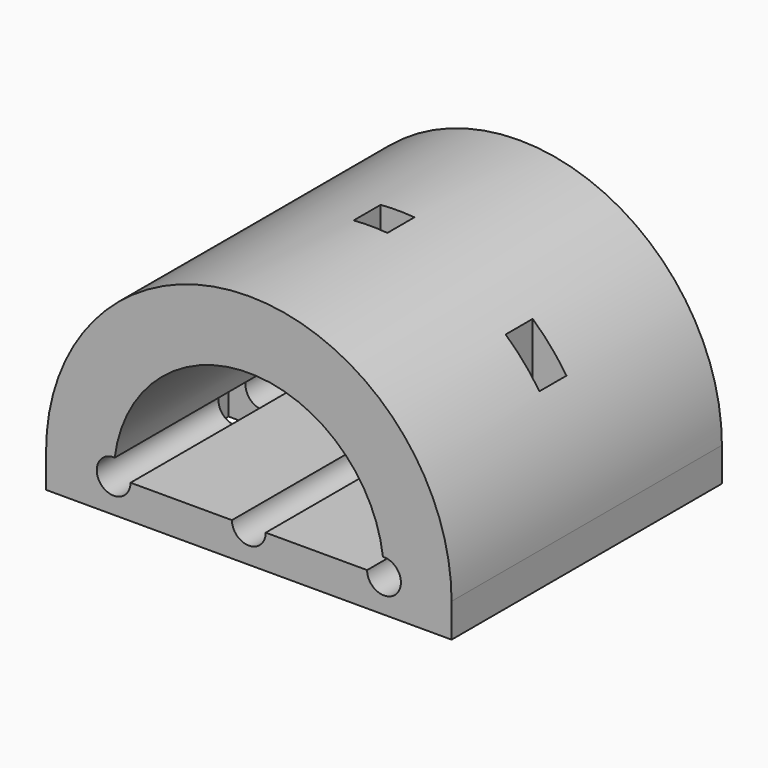
from build123d import *

# Parameters (mm, degrees)
F1_DEPTH  = 100
F3_DEPTH  = 100.001
F4_W      = 10
F4_H      = 10
F5_DEPTH  = 10.001
F6_DEPTH  = 60.001
F7_W      = 10
F7_H      = 10
F8_DEPTH  = 70.001
F9_W      = 10
F9_H      = 10
F10_DEPTH = 70.001


with BuildPart() as f1:
    # F0 (on Front) → F1 (new body)
    with BuildSketch(Plane.XZ):
        with BuildLine():
            Line((60, -10), (60, 0))
            ThreePointArc((60, 0), (0, 60), (-60, 0))
            Line((-60, 0), (-60, -10))
            Line((-60, -10), (60, -10))
        make_face()
    extrude(amount=F1_DEPTH)

    # F2 (on face) → F3 (cut, through all)
    with BuildSketch(Plane.XZ.offset(100)):
        with BuildLine():
            Line((35, 0), (40, 0))
            ThreePointArc((40, 0), (39.9217985567, 2.5), (39.6875, 4.9902248196))
            ThreePointArc((39.6875, 4.9902248196), (36.3556550657, 3.4232659844), (35, 0))
        make_face()
        with BuildLine():
            ThreePointArc((39.6875, 4.9902248196), (39.9217985567, 2.5), (40, 0))
            Line((40, 0), (35, 0))
            ThreePointArc((35, 0), (40, -5), (45, 0))
            ThreePointArc((45, 0), (43.4232659844, 3.6443449343), (39.6875, 4.9902248196))
        make_face()
        with BuildLine():
            ThreePointArc((35, 0), (36.3556550657, 3.4232659844), (39.6875, 4.9902248196))
            ThreePointArc((39.6875, 4.9902248196), (0, 40), (-39.6875, 4.9902248196))
            ThreePointArc((-39.6875, 4.9902248196), (-36.3556550657, 3.4232659844), (-35, 0))
            Line((-35, 0), (-5, 0))
            ThreePointArc((-5, 0), (0, 5), (5, 0))
            Line((5, 0), (35, 0))
        make_face()
        with BuildLine():
            ThreePointArc((-35, 0), (-36.3556550657, 3.4232659844), (-39.6875, 4.9902248196))
            ThreePointArc((-39.6875, 4.9902248196), (-39.9217985567, 2.5), (-40, 0))
            Line((-40, 0), (-35, 0))
        make_face()
        with BuildLine():
            ThreePointArc((-40, 0), (-39.9217985567, 2.5), (-39.6875, 4.9902248196))
            ThreePointArc((-39.6875, 4.9902248196), (-43.6443449343, -3.4232659844), (-35, 0))
            Line((-35, 0), (-40, 0))
        make_face()
        with BuildLine():
            ThreePointArc((-5, 0), (0, -5), (5, 0))
            Line((5, 0), (-5, 0))
        make_face()
        with BuildLine():
            Line((-5, 0), (5, 0))
            ThreePointArc((5, 0), (0, 5), (-5, 0))
        make_face()
    extrude(amount=-F3_DEPTH, mode=Mode.SUBTRACT)

    # F4 (on Top) → F5 (cut, through all)
    with BuildSketch(Plane.XY):
        with Locations((0, -50)):
            Rectangle(F4_W, F4_H)
    extrude(amount=-F5_DEPTH, mode=Mode.SUBTRACT)

    # F4 (on Top) → F6 (cut, through all)
    with BuildSketch(Plane.XY):
        with Locations((0, -50)):
            Rectangle(F4_W, F4_H)
    extrude(amount=F6_DEPTH, mode=Mode.SUBTRACT)

    # F7 (on face) → F8 (cut, through all)
    with BuildSketch(Plane(origin=(0, 0, -10), x_dir=(1, 0, 0), z_dir=(0, 0, -1))):
        with Locations((45, 50)):
            Rectangle(F7_W, F7_H)
    extrude(amount=-F8_DEPTH, mode=Mode.SUBTRACT)

    # F9 (on face) → F10 (cut, through all)
    with BuildSketch(Plane(origin=(0, 0, -10), x_dir=(1, 0, 0), z_dir=(0, 0, -1))):
        with Locations((-45, 50)):
            Rectangle(F9_W, F9_H)
    extrude(amount=-F10_DEPTH, mode=Mode.SUBTRACT)


solid = f1.part
